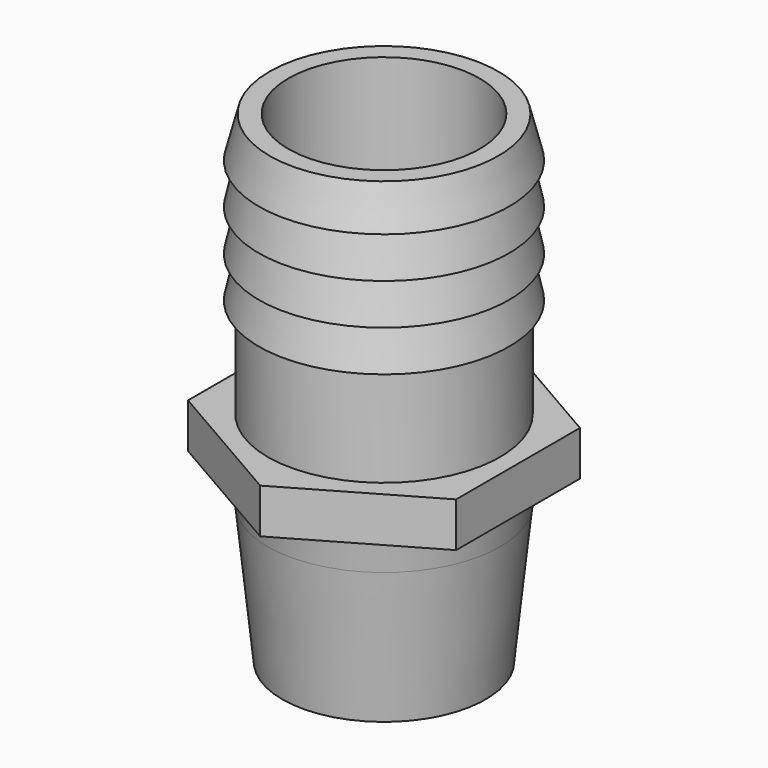
from build123d import *

# Parameters (mm, degrees)
F3_R     = 16.51
F4_DEPTH = 6.35


with BuildPart() as f1:
    # F0 (on Front) → F1 (revolve)
    with BuildSketch(Plane.XZ):
        Polygon((-13.589, 26.797), (-13.589, 68.58), (-16.256, 68.58), (-17.78, 62.738), (-16.51, 62.738), (-17.78, 56.896), (-16.51, 56.896), (-17.78, 51.054), (-16.51, 51.054), (-17.78, 45.212), (-16.51, 45.212), (-16.51, 0), (-11.7983, 0), (-11.7983, 26.797), align=None)
    revolve(axis=Axis((0, 0, 34.29), (0, 0, 1)))

    # F3 (on offset) → F4 (join)
    with BuildSketch(Plane.XY.offset(30.988)):
        Polygon((19.05, 10.9985226281), (0, 21.9970452561), (-19.05, 10.9985226281), (-19.05, -10.9985226281), (0, -21.9970452561), (19.05, -10.9985226281), align=None)
        Circle(F3_R, mode=Mode.SUBTRACT)
    extrude(amount=-F4_DEPTH)

    # F6 (on Front) → F7 (revolve)
    with BuildSketch(Plane.XZ):
        Polygon((-16.51, 24.638), (-17.018, 24.638), (-16.51, 19.7591881188), align=None)
    revolve(axis=Axis((0, 0, 12.319), (0, 0, 1)))

    # F8 (on Front) → F9 (revolve, cut)
    with BuildSketch(Plane.XZ):
        Polygon((-14.4526, 0), (-16.51, 19.7591881188), (-16.51, 0), align=None)
    revolve(axis=Axis((0, 0, 12.319), (0, 0, 1)), mode=Mode.SUBTRACT)


solid = f1.part
